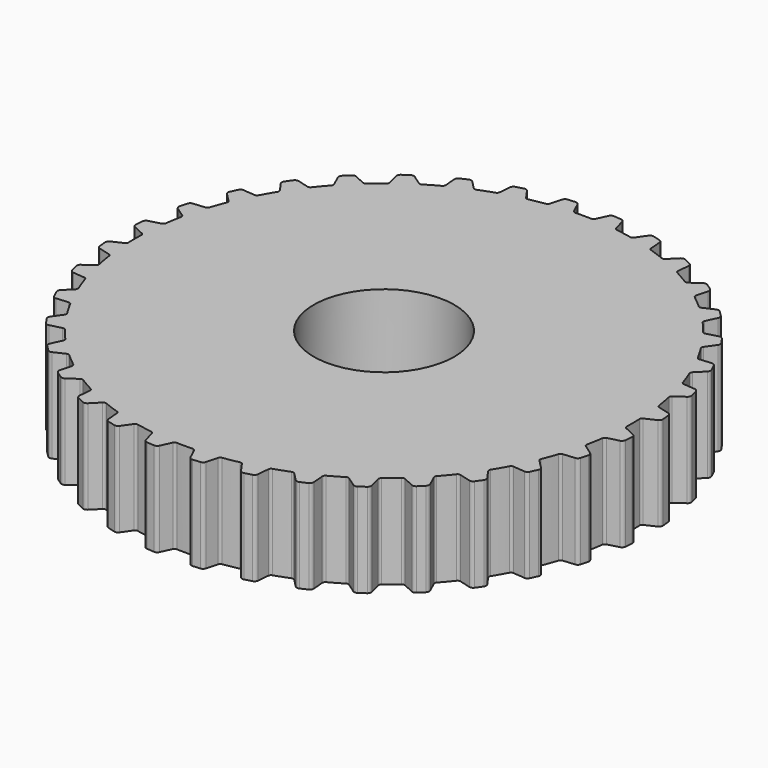
from build123d import *

# Parameters (mm, degrees)
PULLEY_SK_R        = 56.375
PULLEY_SK_R_2      = 15
PAD_DEPTH          = 10
POCKET_DEPTH       = 331.404951
POCKET_DEPTH_BACK  = 331.404951
POLARPATTERN_COUNT = 36
SKETCH001_R        = 25
SKETCH001_R_2      = 15
PAD001_DEPTH       = 2


with BuildPart() as part:
    with BuildSketch(Plane.XY):
        Circle(PULLEY_SK_R)
        Circle(PULLEY_SK_R_2, mode=Mode.SUBTRACT)
    extrude(amount=PAD_DEPTH, both=True)

    # Sketch → Pocket (cut, two sides)
    with BuildSketch(Plane.XY) as pocket_sk:
        with BuildLine():
            ThreePointArc((1.7, 53.147819), (0, 53.175), (-1.7, 53.147819))
            ThreePointArc((-2.262967, 53.493941), (-2.033431, 53.236388), (-1.7, 53.147819))
            Line((-3.322224, 55.765527), (-2.262967, 53.493941))
            ThreePointArc((-3.322224, 55.765527), (-3.642301, 56.117359), (-4.105531, 56.225308))
            ThreePointArc((-4.105531, 56.225308), (-4.803136, 56.170014), (-5.5, 56.106066))
            Line((-5.5, 56.106066), (-5.5, 58.106066))
            Line((-5.5, 58.106066), (5.5, 58.106066))
            Line((5.5, 58.106066), (5.5, 56.106066))
            ThreePointArc((5.5, 56.106066), (4.803136, 56.170014), (4.105531, 56.225308))
            ThreePointArc((4.105531, 56.225308), (3.642301, 56.117359), (3.322224, 55.765527))
            Line((3.322224, 55.765527), (2.262967, 53.493941))
            ThreePointArc((1.7, 53.147819), (2.033431, 53.236388), (2.262967, 53.493941))
        make_face()
    pocket = extrude(amount=-POCKET_DEPTH, mode=Mode.SUBTRACT) + extrude(pocket_sk.sketch, amount=POCKET_DEPTH_BACK, mode=Mode.SUBTRACT)

    # PolarPattern: Pocket ×36 about axis
    polarpattern_axis = Axis((0, 0, 0), (0, 0, 1))
    for i in range(1, POLARPATTERN_COUNT):
        add(pocket.rotate(polarpattern_axis, i * 360 / POLARPATTERN_COUNT), mode=Mode.SUBTRACT)

    # Sketch001 (on Face255 of PolarPattern) → Pad001 (join)
    with BuildSketch(Plane(origin=(0, 0, -10), x_dir=(1, 0, 0), z_dir=(0, 0, -1))):
        Circle(SKETCH001_R)
        Circle(SKETCH001_R_2, mode=Mode.SUBTRACT)
    extrude(amount=PAD001_DEPTH)


solid = part.part
